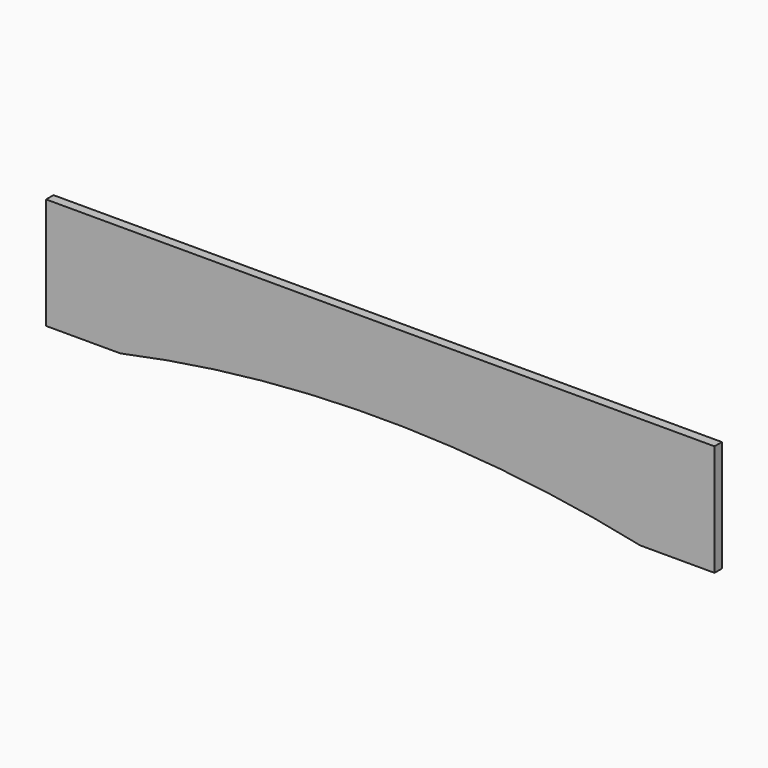
from build123d import *

# Parameters (mm, degrees)
F1_DEPTH = 12.7


with BuildPart() as f1:
    # F0 (on Front) → F1 (new body)
    with BuildSketch(Plane.XZ):
        with BuildLine():
            Line((0, 152.4), (0, 0))
            Line((0, 0), (101.6, 0))
            ThreePointArc((101.6, 0), (457.2, 37.801961), (812.8, 0))
            Line((812.8, 0), (914.4, 0))
            Line((914.4, 0), (914.4, 152.4))
            Line((914.4, 152.4), (0, 152.4))
        make_face()
    extrude(amount=-F1_DEPTH)


solid = f1.part
